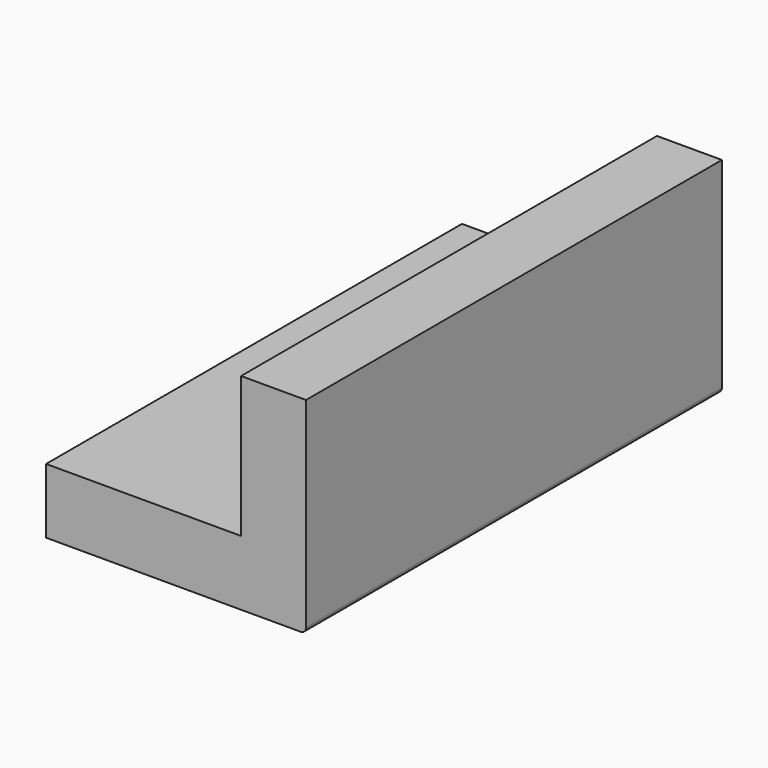
from build123d import *

# Parameters (mm, degrees)
F0_W     = 57.15
F0_H     = 19.05
F1_DEPTH = 152.4


with BuildPart() as f1:
    # F0 (on Front) → F1 (new body)
    with BuildSketch(Plane.XZ):
        with Locations((-9.525, -20.6375)):
            Rectangle(F0_W, F0_H)
        with BuildLine():
            Line((38.1, 30.1625), (19.05, 30.1625))
            Line((19.05, 30.1625), (19.05, -11.1125))
            Line((19.05, -11.1125), (19.05, -30.1625))
            Line((19.05, -30.1625), (36.5125, -30.1625))
            ThreePointArc((36.5125, -30.1625), (37.635032, -29.697532), (38.1, -28.575))
            Line((38.1, -28.575), (38.1, 30.1625))
        make_face()
    extrude(amount=F1_DEPTH)


solid = f1.part
